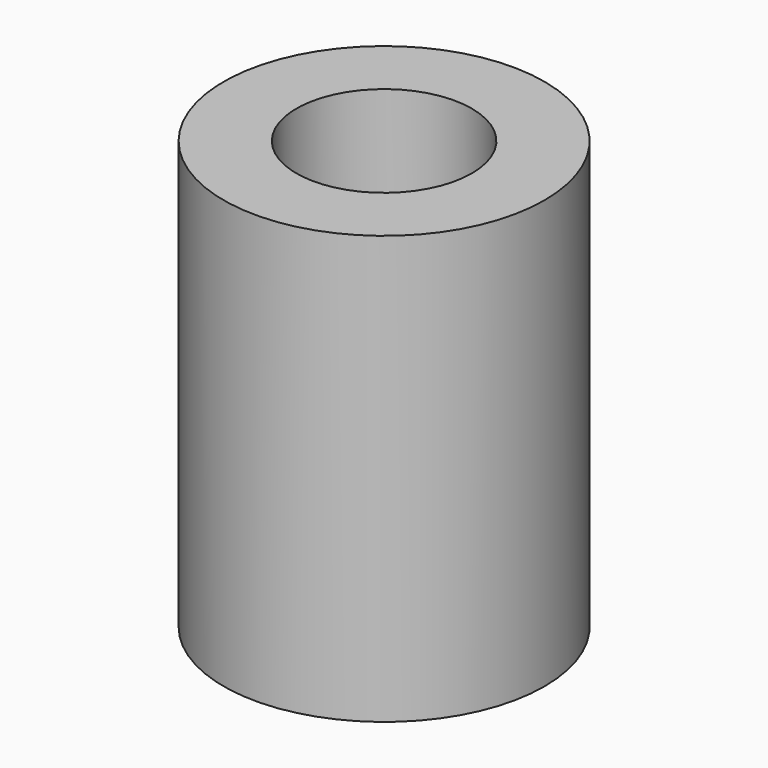
from build123d import *

# Parameters (mm, degrees)
SKETCH_R        = 7.5
PAD_DEPTH       = 20
SKETCH001_R     = 4.1
POCKET_DEPTH    = 10
SKETCH002_R     = 2.5
POCKET001_DEPTH = 5


with BuildPart() as part:
    # Sketch → Pad (new body)
    with BuildSketch(Plane.XY):
        Circle(SKETCH_R)
    extrude(amount=PAD_DEPTH)

    # Sketch001 → Pocket (cut)
    with BuildSketch(Plane.XY.offset(20)):
        Circle(SKETCH001_R)
    extrude(amount=-POCKET_DEPTH, mode=Mode.SUBTRACT)

    # Sketch002 → Pocket001 (cut)
    with BuildSketch(Plane(origin=(0, 0, 0), x_dir=(1, 0, 0), z_dir=(0, 0, -1))):
        Circle(SKETCH002_R)
    extrude(amount=-POCKET001_DEPTH, mode=Mode.SUBTRACT)


solid = part.part
